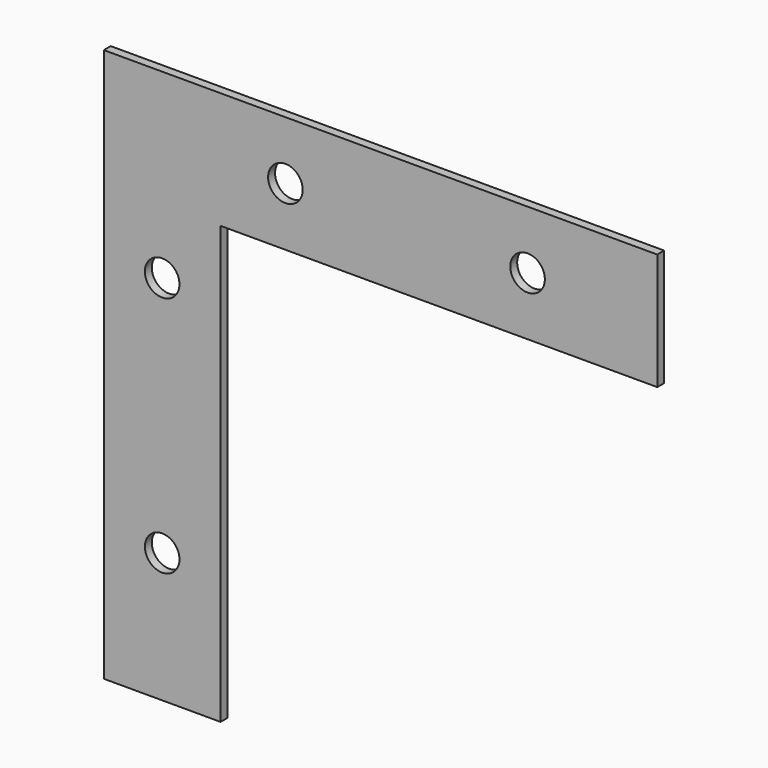
from build123d import *

# Parameters (mm, degrees)
F0_R     = 2
F1_DEPTH = 0.5


with BuildPart() as f1:
    # F0 (on Front) → F1 (new body, symmetric)
    with BuildSketch(Plane.XZ):
        Polygon((-37.965911, 33.129498), (-37.965911, -30.870502), (-24.465911, -30.870502), (-24.465911, 19.629498), (26.034089, 19.629498), (26.034089, 33.129498), align=None)
        with Locations((-31.215911, -15.870502)):
            Circle(F0_R, mode=Mode.SUBTRACT)
        with Locations((-31.215911, 12.129498)):
            Circle(F0_R, mode=Mode.SUBTRACT)
        with Locations((-16.965911, 26.379498)):
            Circle(F0_R, mode=Mode.SUBTRACT)
        with Locations((11.034089, 26.379498)):
            Circle(F0_R, mode=Mode.SUBTRACT)
    extrude(amount=F1_DEPTH, both=True)


solid = f1.part
